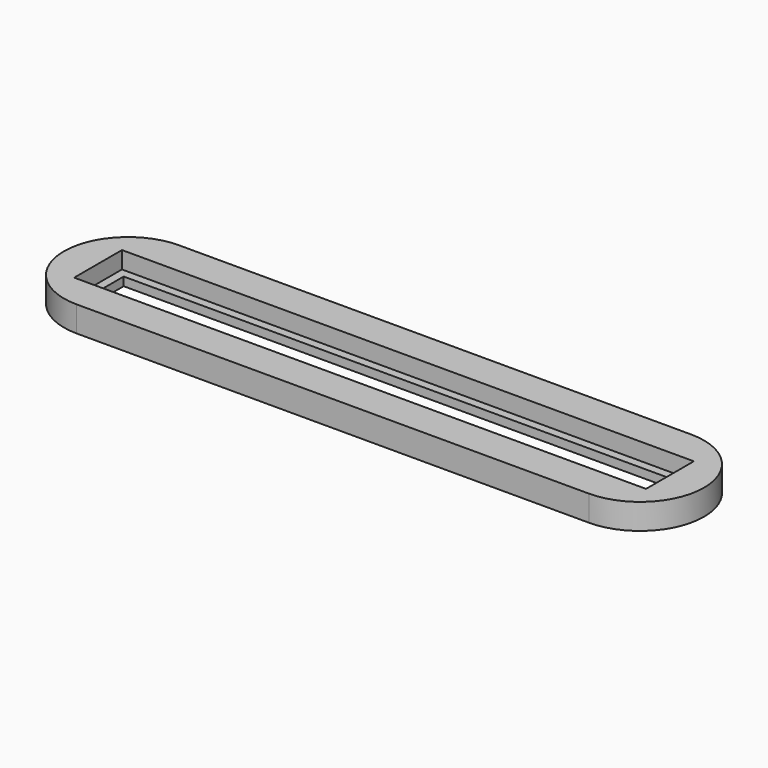
from build123d import *

# Parameters (mm, degrees)
F1_DEPTH = 6
F2_DEPTH = 2


with BuildPart() as f1:
    # F0 (on Top) → F1 (new body)
    with BuildSketch(Plane.XY):
        with BuildLine():
            ThreePointArc((-46.7335008386, 7), (-52.2540333076, 12.8452325787), (-60, 15))
            ThreePointArc((-60, 15), (-70.6066017027, 10.6066017329), (-75, 4.28e-08))
            ThreePointArc((-75, 4.28e-08), (-70.6066017329, -10.6066017027), (-60, -15))
            ThreePointArc((-60, -15), (-52.2540333076, -12.8452325787), (-46.7335008386, -7))
            Line((-46.7335008386, -7), (-67, -7))
            Line((-67, -7), (-67, 7))
            Line((-67, 7), (-46.7335008386, 7))
        make_face()
        with BuildLine():
            ThreePointArc((75, 0), (70.6066017338, 10.6066017018), (60.0000000452, 15))
            ThreePointArc((60.0000000452, 15), (52.2540333269, 12.8452325903), (46.7335008386, 7))
            Line((46.7335008386, 7), (67, 7))
            Line((67, 7), (67, -7))
            Line((67, -7), (46.7335008386, -7))
            ThreePointArc((46.7335008386, -7), (52.2540333076, -12.8452325787), (60, -15))
            ThreePointArc((60, -15), (70.6066017178, -10.6066017178), (75, 0))
        make_face()
        with BuildLine():
            ThreePointArc((-46.7335008386, -7), (-52.2540333076, -12.8452325787), (-60, -15))
            Line((-60, -15), (60, -15))
            ThreePointArc((60, -15), (52.2540333076, -12.8452325787), (46.7335008386, -7))
            Line((46.7335008386, -7), (-46.7335008386, -7))
        make_face()
        with BuildLine():
            Line((60.0000000452, 15), (-60, 15))
            ThreePointArc((-60, 15), (-52.2540333076, 12.8452325787), (-46.7335008386, 7))
            Line((-46.7335008386, 7), (46.7335008386, 7))
            ThreePointArc((46.7335008386, 7), (52.2540333269, 12.8452325903), (60.0000000452, 15))
        make_face()
    extrude(amount=F1_DEPTH)

    # F0 (on Top) → F2 (join)
    with BuildSketch(Plane.XY):
        with BuildLine():
            ThreePointArc((-45.8578643763, 5), (-46.2592461926, 6.0159525267), (-46.7335008386, 7))
            Line((-46.7335008386, 7), (-67, 7))
            Line((-67, 7), (-67, -7))
            Line((-67, -7), (-46.7335008386, -7))
            ThreePointArc((-46.7335008386, -7), (-46.2592461926, -6.0159525267), (-45.8578643763, -5))
            Line((-45.8578643763, -5), (-65, -5))
            Line((-65, -5), (-65, 5))
            Line((-65, 5), (-45.8578643763, 5))
        make_face()
        with BuildLine():
            Line((46.7335008386, 7), (-46.7335008386, 7))
            ThreePointArc((-46.7335008386, 7), (-46.2592461926, 6.0159525267), (-45.8578643763, 5))
            Line((-45.8578643763, 5), (45.8578643763, 5))
            ThreePointArc((45.8578643763, 5), (46.2592461926, 6.0159525267), (46.7335008386, 7))
        make_face()
        with BuildLine():
            Line((67, 7), (46.7335008386, 7))
            ThreePointArc((46.7335008386, 7), (46.2592461926, 6.0159525267), (45.8578643763, 5))
            Line((45.8578643763, 5), (65, 5))
            Line((65, 5), (65, -5))
            Line((65, -5), (45.8578643763, -5))
            ThreePointArc((45.8578643763, -5), (46.2592461926, -6.0159525267), (46.7335008386, -7))
            Line((46.7335008386, -7), (67, -7))
            Line((67, -7), (67, 7))
        make_face()
        with BuildLine():
            ThreePointArc((-45.8578643763, 5), (-46.2592461926, 6.0159525267), (-46.7335008386, 7))
            Line((-46.7335008386, 7), (-67, 7))
            Line((-67, 7), (-67, -7))
            Line((-67, -7), (-46.7335008386, -7))
            ThreePointArc((-46.7335008386, -7), (-46.2592461926, -6.0159525267), (-45.8578643763, -5))
            Line((-45.8578643763, -5), (-65, -5))
            Line((-65, -5), (-65, 5))
            Line((-65, 5), (-45.8578643763, 5))
        make_face()
        with BuildLine():
            Line((67, 7), (46.7335008386, 7))
            ThreePointArc((46.7335008386, 7), (46.2592461926, 6.0159525267), (45.8578643763, 5))
            Line((45.8578643763, 5), (65, 5))
            Line((65, 5), (65, -5))
            Line((65, -5), (45.8578643763, -5))
            ThreePointArc((45.8578643763, -5), (46.2592461926, -6.0159525267), (46.7335008386, -7))
            Line((46.7335008386, -7), (67, -7))
            Line((67, -7), (67, 7))
        make_face()
        with BuildLine():
            ThreePointArc((-45.8578643763, -5), (-46.2592461926, -6.0159525267), (-46.7335008386, -7))
            Line((-46.7335008386, -7), (46.7335008386, -7))
            ThreePointArc((46.7335008386, -7), (46.2592461926, -6.0159525267), (45.8578643763, -5))
            Line((45.8578643763, -5), (-45.8578643763, -5))
        make_face()
    extrude(amount=F2_DEPTH)


solid = f1.part
